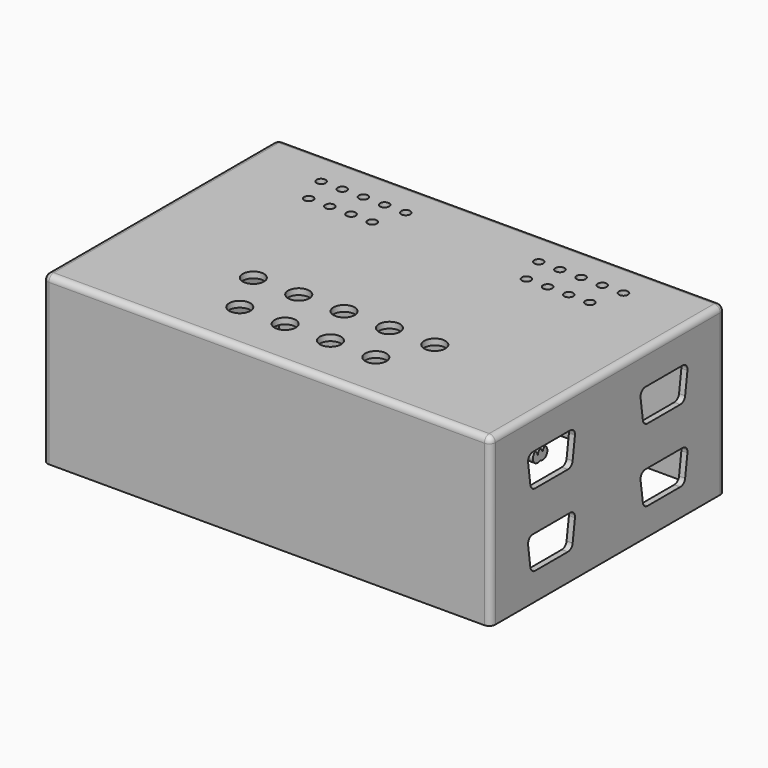
from build123d import *

# Parameters (mm, degrees)
F0_W     = 148
F0_H     = 97
F1_DEPTH = 55
F2_T     = -2
F3_R     = 2
F4_R     = 1.5
F4_R_2   = 3.5
F5_DEPTH = 3
F7_DEPTH = 3
F9_DEPTH = 3


with BuildPart() as f1:
    # F0 (on Top) → F1 (new body)
    with BuildSketch(Plane.XY):
        Rectangle(F0_W, F0_H)
    extrude(amount=F1_DEPTH)

    # F2
    f2_openings = [f1.faces().sort_by_distance(p)[0] for p in [
        (0, 0, 0),
    ]]
    offset(amount=F2_T, openings=f2_openings)

    # F3
    f3_edges = [f1.edges().sort_by_distance(p)[0] for p in [
        (0, -48.5, 55),
        (-74, 0, 55),
        (74, 0, 55),
        (0, 48.5, 55),
        (-74, -48.5, 27.5),
        (74, -48.5, 27.5),
        (74, 48.5, 27.5),
        (-74, 48.5, 27.5),
    ]]
    fillet(f3_edges, radius=F3_R)

    # F4 (on face) → F5 (cut)
    with BuildSketch(Plane.XY.offset(55)):
        with Locations((-50, 36.5)):
            Circle(F4_R)
        with Locations((-43, 36.5)):
            Circle(F4_R)
        with Locations((-36, 36.5)):
            Circle(F4_R)
        with Locations((-29, 36.5)):
            Circle(F4_R)
        with Locations((-22, 36.5)):
            Circle(F4_R)
        with Locations((-46.5, 27)):
            Circle(F4_R)
        with Locations((-39.5, 27)):
            Circle(F4_R)
        with Locations((-32.5, 27)):
            Circle(F4_R)
        with Locations((-25.5, 27)):
            Circle(F4_R)
        with Locations((50, 36.5)):
            Circle(F4_R)
        with Locations((43, 36.5)):
            Circle(F4_R)
        with Locations((36, 36.5)):
            Circle(F4_R)
        with Locations((29, 36.5)):
            Circle(F4_R)
        with Locations((22, 36.5)):
            Circle(F4_R)
        with Locations((46.5, 27)):
            Circle(F4_R)
        with Locations((39.5, 27)):
            Circle(F4_R)
        with Locations((32.5, 27)):
            Circle(F4_R)
        with Locations((25.5, 27)):
            Circle(F4_R)
        with Locations((-30, -16.5)):
            Circle(F4_R_2)
        with Locations((-15, -16.5)):
            Circle(F4_R_2)
        with Locations((0, -16.5)):
            Circle(F4_R_2)
        with Locations((15, -16.5)):
            Circle(F4_R_2)
        with Locations((30, -16.5)):
            Circle(F4_R_2)
        with Locations((-22.5, -31.5)):
            Circle(F4_R_2)
        with Locations((-7.5, -31.5)):
            Circle(F4_R_2)
        with Locations((7.5, -31.5)):
            Circle(F4_R_2)
        with Locations((22.5, -31.5)):
            Circle(F4_R_2)
    extrude(amount=-F5_DEPTH, mode=Mode.SUBTRACT)

    # F6 (on face) → F7 (cut)
    with BuildSketch(Plane(origin=(-74, 0, 0), x_dir=(0, -1, 0), z_dir=(-1, 0, 0))):
        with BuildLine():
            Line((7.7087633353, 44), (0, 44))
            Line((0, 44), (-7.7087633353, 44))
            ThreePointArc((-7.7087633353, 44), (-9.2154903874, 43.315208573), (-9.6904236714, 41.7297735905))
            Line((-9.6904236714, 41.7297735905), (-8.7358782169, 34.7297735905))
            ThreePointArc((-8.7358782169, 34.7297735905), (-8.0694264538, 33.4932729479), (-6.7542178808, 33))
            Line((-6.7542178808, 33), (0, 33))
            Line((0, 33), (6.7542178808, 33))
            ThreePointArc((6.7542178808, 33), (8.0694264538, 33.4932729479), (8.7358782169, 34.7297735905))
            Line((8.7358782169, 34.7297735905), (9.6904236714, 41.7297735905))
            ThreePointArc((9.6904236714, 41.7297735905), (9.2154903874, 43.315208573), (7.7087633353, 44))
        make_face()
        with BuildLine():
            Line((8.7358782169, 10.7297735905), (9.6904236714, 17.7297735905))
            ThreePointArc((9.6904236714, 17.7297735905), (9.2154903874, 19.315208573), (7.7087633353, 20))
            Line((7.7087633353, 20), (0, 20))
            Line((0, 20), (-7.7087633353, 20))
            ThreePointArc((-7.7087633353, 20), (-9.2154903874, 19.315208573), (-9.6904236714, 17.7297735905))
            Line((-9.6904236714, 17.7297735905), (-8.7358782169, 10.7297735905))
            ThreePointArc((-8.7358782169, 10.7297735905), (-8.0694264538, 9.4932729479), (-6.7542178808, 9))
            Line((-6.7542178808, 9), (0, 9))
            Line((0, 9), (6.7542178808, 9))
            ThreePointArc((6.7542178808, 9), (8.0694264538, 9.4932729479), (8.7358782169, 10.7297735905))
        make_face()
    extrude(amount=-F7_DEPTH, mode=Mode.SUBTRACT)

    # F8 (on face) → F9 (cut)
    with BuildSketch(Plane.YZ.offset(74)):
        with BuildLine():
            Line((-15.5412366647, 44), (-23.25, 44))
            Line((-23.25, 44), (-24.9587633353, 44))
            ThreePointArc((-24.9587633353, 44), (-23.544549773, 43.4142135624), (-22.9587633353, 42))
            ThreePointArc((-22.9587633353, 42), (-23.9587633353, 40.2679491924), (-25.9587633353, 40.2679491924))
            ThreePointArc((-25.9587633353, 40.2679491924), (-26.9587633353, 40), (-27.9587633353, 40.2679491924))
            ThreePointArc((-27.9587633353, 40.2679491924), (-28.9587633353, 40), (-29.9587633353, 40.2679491924))
            ThreePointArc((-29.9587633353, 40.2679491924), (-31.8391876061, 40.2042124003), (-32.9404236714, 41.7297735905))
            Line((-32.9404236714, 41.7297735905), (-31.9858782169, 34.7297735905))
            ThreePointArc((-31.9858782169, 34.7297735905), (-30.1396418961, 36.9954098166), (-28.0042178808, 35))
            ThreePointArc((-28.0042178808, 35), (-28.5900043184, 33.5857864376), (-30.0042178808, 33))
            Line((-30.0042178808, 33), (-23.25, 33))
            Line((-23.25, 33), (-16.4957821192, 33))
            ThreePointArc((-16.4957821192, 33), (-17.9099956816, 36.4142135624), (-14.4957821192, 35))
            ThreePointArc((-14.4957821192, 35), (-14.5003723026, 34.8645759847), (-14.5141217831, 34.7297735905))
            Line((-14.5141217831, 34.7297735905), (-13.5595763286, 41.7297735905))
            ThreePointArc((-13.5595763286, 41.7297735905), (-17.0479637167, 40.684791427), (-15.5412366647, 44))
        make_face()
        with BuildLine():
            ThreePointArc((-25.9587633353, 43.7320508076), (-25.4764014256, 43.9318516526), (-24.9587633353, 44))
            Line((-24.9587633353, 44), (-26.9587633353, 44))
            ThreePointArc((-26.9587633353, 44), (-26.4411252451, 43.9318516526), (-25.9587633353, 43.7320508076))
        make_face()
        with BuildLine():
            ThreePointArc((-22.9587633353, 42), (-23.544549773, 43.4142135624), (-24.9587633353, 44))
            ThreePointArc((-24.9587633353, 44), (-25.4764014256, 43.9318516526), (-25.9587633353, 43.7320508076))
            ThreePointArc((-25.9587633353, 43.7320508076), (-25.2267125278, 43), (-24.9587633353, 42))
            ThreePointArc((-24.9587633353, 42), (-25.2267125278, 41), (-25.9587633353, 40.2679491924))
            ThreePointArc((-25.9587633353, 40.2679491924), (-23.9587633353, 40.2679491924), (-22.9587633353, 42))
        make_face()
        with BuildLine():
            ThreePointArc((-13.5412366647, 42), (-14.1270231023, 43.4142135624), (-15.5412366647, 44))
            ThreePointArc((-15.5412366647, 44), (-17.0479637167, 40.684791427), (-13.5595763286, 41.7297735905))
            ThreePointArc((-13.5595763286, 41.7297735905), (-13.5458268481, 41.8645759847), (-13.5412366647, 42))
        make_face()
        with BuildLine():
            ThreePointArc((-27.9587633353, 43.7320508076), (-27.4764014256, 43.9318516526), (-26.9587633353, 44))
            Line((-26.9587633353, 44), (-28.9587633353, 44))
            ThreePointArc((-28.9587633353, 44), (-28.4411252451, 43.9318516526), (-27.9587633353, 43.7320508076))
        make_face()
        with BuildLine():
            ThreePointArc((-25.9587633353, 43.7320508076), (-26.4411252451, 43.9318516526), (-26.9587633353, 44))
            ThreePointArc((-26.9587633353, 44), (-27.4764014256, 43.9318516526), (-27.9587633353, 43.7320508076))
            ThreePointArc((-27.9587633353, 43.7320508076), (-27.2267125278, 43), (-26.9587633353, 42))
            ThreePointArc((-26.9587633353, 42), (-26.6908141429, 43), (-25.9587633353, 43.7320508076))
        make_face()
        with BuildLine():
            ThreePointArc((-29.9587633353, 43.7320508076), (-29.4764014256, 43.9318516526), (-28.9587633353, 44))
            Line((-28.9587633353, 44), (-30.9587633353, 44))
            ThreePointArc((-30.9587633353, 44), (-30.4411252451, 43.9318516526), (-29.9587633353, 43.7320508076))
        make_face()
        with BuildLine():
            ThreePointArc((-27.9587633353, 43.7320508076), (-28.4411252451, 43.9318516526), (-28.9587633353, 44))
            ThreePointArc((-28.9587633353, 44), (-29.4764014256, 43.9318516526), (-29.9587633353, 43.7320508076))
            ThreePointArc((-29.9587633353, 43.7320508076), (-29.2267125278, 43), (-28.9587633353, 42))
            ThreePointArc((-28.9587633353, 42), (-28.6908141429, 43), (-27.9587633353, 43.7320508076))
        make_face()
        with BuildLine():
            ThreePointArc((-16.4957821192, 33), (-15.1805735462, 33.4932729479), (-14.5141217831, 34.7297735905))
            ThreePointArc((-14.5141217831, 34.7297735905), (-14.5003723026, 34.8645759847), (-14.4957821192, 35))
            ThreePointArc((-14.4957821192, 35), (-17.9099956816, 36.4142135624), (-16.4957821192, 33))
        make_face()
        with BuildLine():
            ThreePointArc((-29.9587633353, 43.7320508076), (-30.4411252451, 43.9318516526), (-30.9587633353, 44))
            ThreePointArc((-30.9587633353, 44), (-32.4654903874, 43.315208573), (-32.9404236714, 41.7297735905))
            ThreePointArc((-32.9404236714, 41.7297735905), (-31.8391876061, 40.2042124003), (-29.9587633353, 40.2679491924))
            ThreePointArc((-29.9587633353, 40.2679491924), (-30.9587633353, 42), (-29.9587633353, 43.7320508076))
        make_face()
        with BuildLine():
            ThreePointArc((-28.0042178808, 35), (-30.1396418961, 36.9954098166), (-31.9858782169, 34.7297735905))
            ThreePointArc((-31.9858782169, 34.7297735905), (-31.3194264538, 33.4932729479), (-30.0042178808, 33))
            ThreePointArc((-30.0042178808, 33), (-28.5900043184, 33.5857864376), (-28.0042178808, 35))
        make_face()
        with BuildLine():
            ThreePointArc((-31.9858782169, 10.7297735905), (-31.3194264538, 9.4932729479), (-30.0042178808, 9))
            Line((-30.0042178808, 9), (-23.25, 9))
            Line((-23.25, 9), (-16.4957821192, 9))
            ThreePointArc((-16.4957821192, 9), (-15.1805735462, 9.4932729479), (-14.5141217831, 10.7297735905))
            Line((-14.5141217831, 10.7297735905), (-13.5595763286, 17.7297735905))
            ThreePointArc((-13.5595763286, 17.7297735905), (-14.0345096126, 19.315208573), (-15.5412366647, 20))
            Line((-15.5412366647, 20), (-23.25, 20))
            Line((-23.25, 20), (-30.9587633353, 20))
            ThreePointArc((-30.9587633353, 20), (-32.4654903874, 19.315208573), (-32.9404236714, 17.7297735905))
            Line((-32.9404236714, 17.7297735905), (-31.9858782169, 10.7297735905))
        make_face()
        with BuildLine():
            ThreePointArc((14.5141217831, 34.7297735905), (15.1805735462, 33.4932729479), (16.4957821192, 33))
            Line((16.4957821192, 33), (23.25, 33))
            Line((23.25, 33), (30.0042178808, 33))
            ThreePointArc((30.0042178808, 33), (31.3194264538, 33.4932729479), (31.9858782169, 34.7297735905))
            Line((31.9858782169, 34.7297735905), (32.9404236714, 41.7297735905))
            ThreePointArc((32.9404236714, 41.7297735905), (32.4654903874, 43.315208573), (30.9587633353, 44))
            Line((30.9587633353, 44), (23.25, 44))
            Line((23.25, 44), (15.5412366647, 44))
            ThreePointArc((15.5412366647, 44), (14.0345096126, 43.315208573), (13.5595763286, 41.7297735905))
            Line((13.5595763286, 41.7297735905), (14.5141217831, 34.7297735905))
        make_face()
        with BuildLine():
            ThreePointArc((14.5141217831, 10.7297735905), (15.1805735462, 9.4932729479), (16.4957821192, 9))
            Line((16.4957821192, 9), (23.25, 9))
            Line((23.25, 9), (30.0042178808, 9))
            ThreePointArc((30.0042178808, 9), (31.3194264538, 9.4932729479), (31.9858782169, 10.7297735905))
            Line((31.9858782169, 10.7297735905), (32.9404236714, 17.7297735905))
            ThreePointArc((32.9404236714, 17.7297735905), (32.4654903874, 19.315208573), (30.9587633353, 20))
            Line((30.9587633353, 20), (23.25, 20))
            Line((23.25, 20), (15.5412366647, 20))
            ThreePointArc((15.5412366647, 20), (14.0345096126, 19.315208573), (13.5595763286, 17.7297735905))
            Line((13.5595763286, 17.7297735905), (14.5141217831, 10.7297735905))
        make_face()
    extrude(amount=-F9_DEPTH, mode=Mode.SUBTRACT)


solid = f1.part
